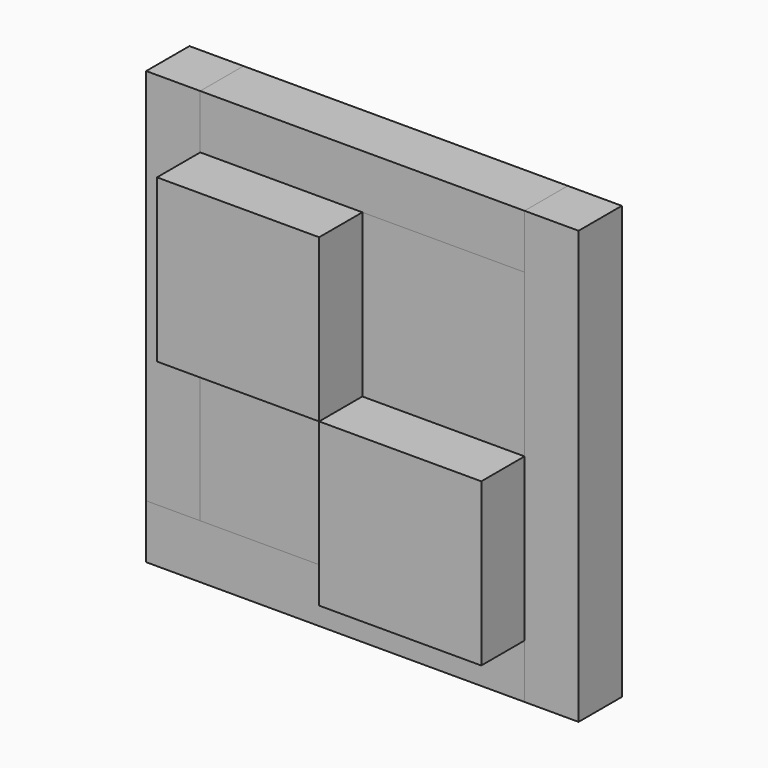
from build123d import *

# Parameters (mm, degrees)
F0_W      = 76.2
F0_H      = 76.2
F1_DEPTH  = 25.4
F2_DEPTH  = 25.4
F3_DEPTH  = 25.4
F4_DEPTH  = 25.4
F5_W      = 152.4
F5_H      = 25.4
F6_DEPTH  = 25.4
F7_W      = 25.4
F7_H      = 177.8
F8_DEPTH  = 25.4
F9_W      = 152.4
F9_H      = 25.4
F9_W_2    = 25.4
F10_DEPTH = 25.4
F11_W     = 25.4
F11_H     = 203.2
F12_DEPTH = 25.4
F14_DEPTH = 50.8
F16_DEPTH = 50.8
F18_DEPTH = 25.4
F20_DEPTH = 25.4


with BuildPart() as f1:
    # F0 (on Front) → F1 (new body)
    with BuildSketch(Plane.XZ):
        with Locations((-38.1, 38.1)):
            Rectangle(F0_W, F0_H)
    extrude(amount=F1_DEPTH)

    # F0 (on Front) → F2 (join)
    with BuildSketch(Plane.XZ):
        with Locations((38.1, 38.1)):
            Rectangle(F0_W, F0_H)
    extrude(amount=-F2_DEPTH)


with BuildPart() as f3:
    # F0 (on Front) → F3 (new body)
    with BuildSketch(Plane.XZ):
        with Locations((38.1, -38.1)):
            Rectangle(F0_W, F0_H)
    extrude(amount=F3_DEPTH)


with BuildPart() as f4:
    # F0 (on Front) → F4 (new body)
    with BuildSketch(Plane.XZ):
        with Locations((-38.1, -38.1)):
            Rectangle(F0_W, F0_H)
    extrude(amount=-F4_DEPTH)


with BuildPart() as f6:
    # F5 (on face) → F6 (new body)
    with BuildSketch(Plane.XY.offset(76.2)):
        with Locations((0, 12.7)):
            Rectangle(F5_W, F5_H)
    extrude(amount=F6_DEPTH)


with BuildPart() as f8:
    # F7 (on face) → F8 (new body)
    with BuildSketch(Plane(origin=(-76.2, 0, 0), x_dir=(0, -1, 0), z_dir=(-1, 0, 0))):
        with Locations((-12.7, 12.7)):
            Rectangle(F7_W, F7_H)
    extrude(amount=F8_DEPTH)


with BuildPart() as f10:
    # F9 (on face) → F10 (new body)
    with BuildSketch(Plane(origin=(0, 0, -76.2), x_dir=(1, 0, 0), z_dir=(0, 0, -1))):
        with Locations((0, -12.7)):
            Rectangle(F9_W, F9_H)
        with Locations((-88.9, -12.7)):
            Rectangle(F9_W_2, F9_H)
    extrude(amount=F10_DEPTH)


with BuildPart() as f12:
    # F11 (on face) → F12 (new body)
    with BuildSketch(Plane.YZ.offset(76.2)):
        with Locations((12.7, 0)):
            Rectangle(F11_W, F11_H)
    extrude(amount=F12_DEPTH)


with BuildPart() as f14:
    # F13 (on face) → F14 (new body)
    with BuildSketch(Plane(origin=(0, 0, 0), x_dir=(-1, 0, 0), z_dir=(0, 1, 0))):
        Polygon((0, 0), (-76.2, -76.2), (0, -76.2), align=None)
    extrude(amount=F14_DEPTH)


with BuildPart() as f16:
    # F15 (on face) → F16 (new body)
    with BuildSketch(Plane(origin=(0, 0, 0), x_dir=(-1, 0, 0), z_dir=(0, 1, 0))):
        Polygon((0, 0), (76.2, 76.2), (0, 76.2), align=None)
    extrude(amount=F16_DEPTH)


with BuildPart() as f18:
    # F17 (on face) → F18 (new body)
    with BuildSketch(Plane(origin=(0, 25.4, 0), x_dir=(-1, 0, 0), z_dir=(0, 1, 0))):
        Polygon((-76.2, 0), (0, 0), (-76.2, 76.2), align=None)
    extrude(amount=F18_DEPTH)


with BuildPart() as f20:
    # F19 (on face) → F20 (new body)
    with BuildSketch(Plane(origin=(0, 25.4, 0), x_dir=(-1, 0, 0), z_dir=(0, 1, 0))):
        Polygon((76.2, 0), (0, 0), (76.2, -76.2), align=None)
    extrude(amount=F20_DEPTH)


solid = Compound([f1.part, f3.part, f4.part, f6.part, f8.part, f10.part, f12.part, f14.part, f16.part, f18.part, f20.part])
